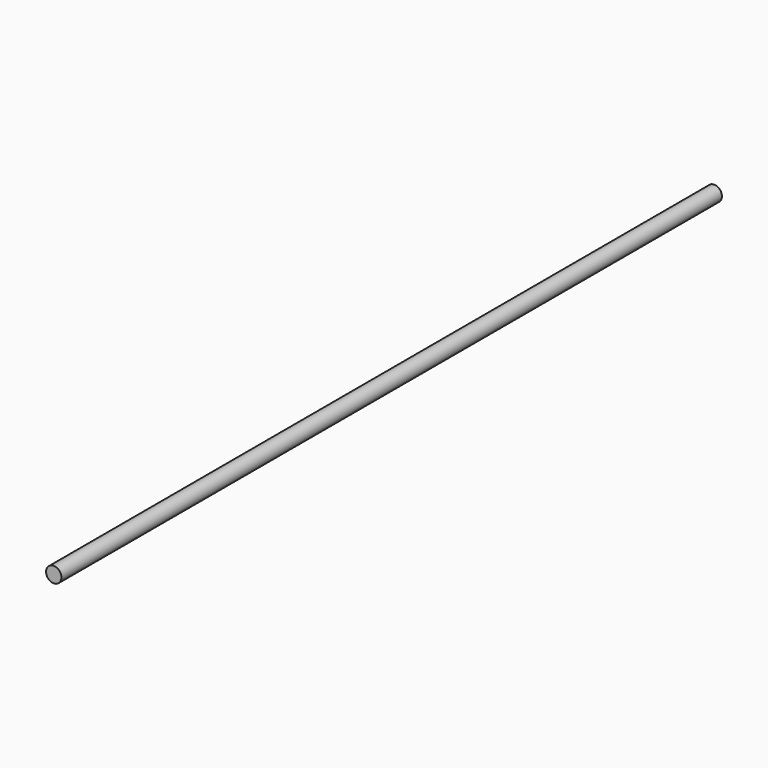
from build123d import *

# Parameters (mm, degrees)
SKETCH_R  = 4
PAD_DEPTH = 430


with BuildPart() as part:
    # Sketch → Pad (new body)
    with BuildSketch(Plane.XZ):
        Circle(SKETCH_R)
    extrude(amount=PAD_DEPTH)


solid = part.part
